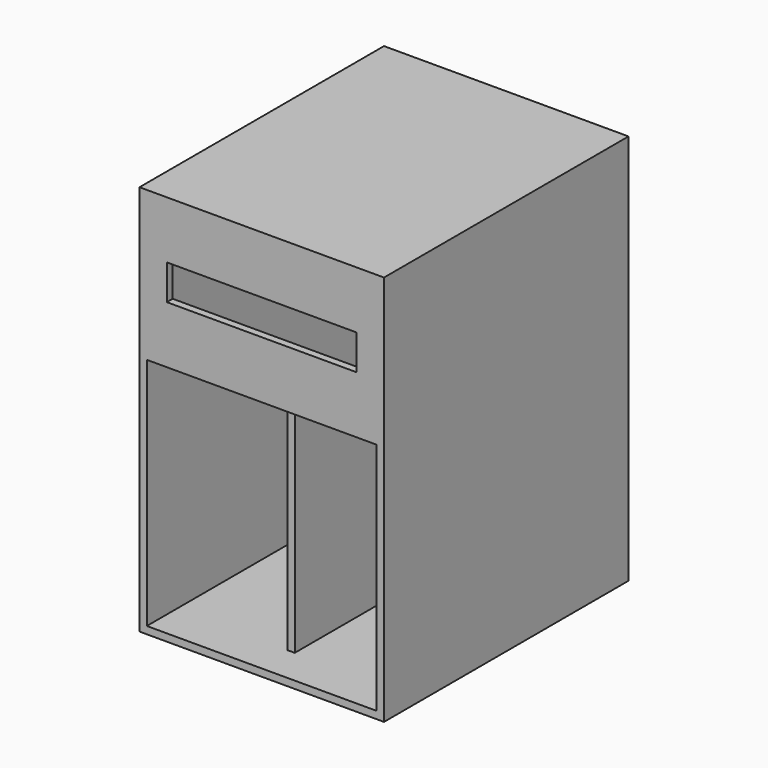
from build123d import *

# Parameters (mm, degrees)
F0_W     = 750
F0_H     = 960
F1_DEPTH = 18
F3_DEPTH = 564
F5_DEPTH = 18
F6_W     = 466
F6_H     = 86
F7_DEPTH = 25
F8_W     = 18
F8_H     = 420


with BuildPart() as f1:
    # F0 (on Right) → F1 (new body)
    with BuildSketch(Plane.YZ):
        with Locations((375, 480)):
            Rectangle(F0_W, F0_H)
    extrude(amount=F1_DEPTH)

    # F2 (on face) → F3 (join)
    with BuildSketch(Plane.YZ.offset(18)):
        Polygon((0, 18), (0, 0), (750, 0), (750, 960), (0, 960), (0, 593), (18, 593), (18, 613.75), (18, 942), (732, 942), (732, 275), (732, 182), (732, 18), (636, 18), align=None)
        Polygon((18, 613.75), (18, 593), (572, 275), (590, 275), (608.1493710692, 275), align=None)
        Polygon((732, 182), (636, 18), (732, 18), align=None)
    extrude(amount=F3_DEPTH)

    # F4 (on face) → F5 (join)
    with BuildSketch(Plane.YZ.offset(582)):
        Polygon((750, 960), (0, 960), (0, 593), (18, 593), (572, 275), (608.1493710692, 275), (18, 613.75), (18, 942), (732, 942), (732, 182), (636, 18), (0, 18), (0, 0), (750, 0), align=None)
        Polygon((18, 593), (0, 593), (0, 18), (636, 18), (732, 182), (732, 942), (18, 942), (18, 613.75), (608.1493710692, 275), (572, 275), align=None)
    extrude(amount=F5_DEPTH)

    # F6 (on face) → F7 (cut)
    with BuildSketch(Plane.XZ):
        with Locations((300, 776.5)):
            Rectangle(F6_W, F6_H)
    extrude(amount=-F7_DEPTH, mode=Mode.SUBTRACT)

    # F8 (on face) → F9 (join, up to the next surface of F1)
    with BuildSketch(Plane.XY.offset(18)):
        with Locations((300, 300)):
            Rectangle(F8_W, F8_H)
    extrude(until=Until.NEXT)


solid = f1.part
